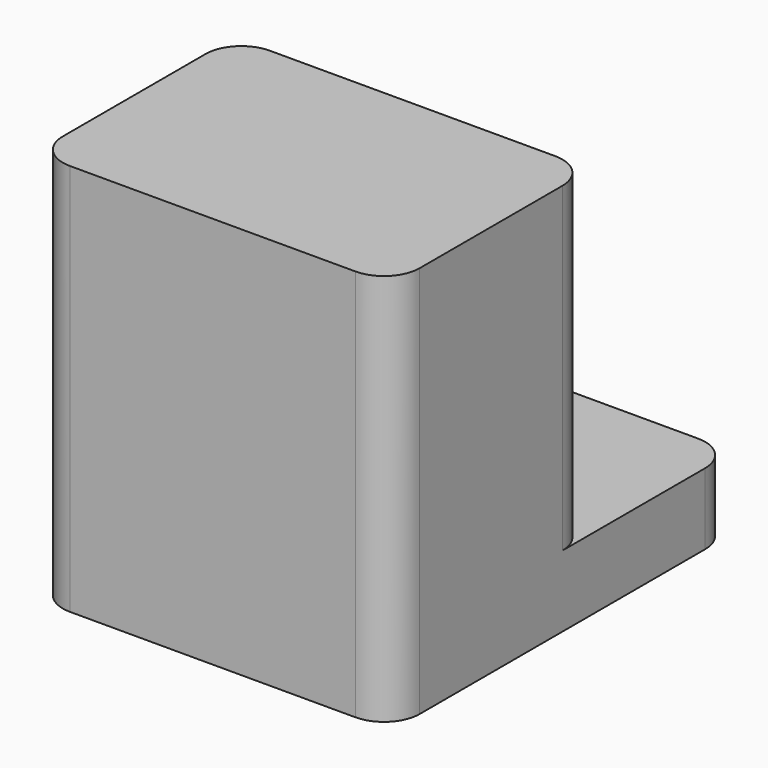
from build123d import *

# Parameters (mm, degrees)
SKETCH001_W  = 10
SKETCH001_H  = 7
PAD001_DEPTH = 9
SKETCH_W     = 10
SKETCH_H     = 12
SKETCH_R     = 1.3
PAD_DEPTH    = 2
FILLET_R     = 1
FILLET001_R  = 1


with BuildPart() as pad001:
    # Sketch001 → Pad001 (new body)
    with BuildSketch(Plane.XY):
        with Locations((0, 3.5)):
            Rectangle(SKETCH001_W, SKETCH001_H)
    extrude(amount=PAD001_DEPTH)


with BuildPart() as fillet001:
    # Sketch → Pad (new body)
    with BuildSketch(Plane.XY):
        with Locations((0, 6)):
            Rectangle(SKETCH_W, SKETCH_H)
        with Locations((0, 9.5)):
            Circle(SKETCH_R, mode=Mode.SUBTRACT)
    extrude(amount=-PAD_DEPTH)

    # Fusion: union Pad001
    add(pad001.part)

    # Fillet
    fillet_edges = [fillet001.edges().sort_by_distance(p)[0] for p in [
        (5, 0, 4.5),
        (5, 0, -1),
    ]]
    fillet(fillet_edges, radius=FILLET_R)

    # Fillet001
    fillet001_edges = [fillet001.edges().sort_by_distance(p)[0] for p in [
        (-5, 0, 4.5),
        (-5, 0, -1),
        (-5, 7, 4.5),
        (-5, 12, -1),
        (5, 7, 4.5),
        (5, 12, -1),
    ]]
    fillet(fillet001_edges, radius=FILLET001_R)


solid = fillet001.part
